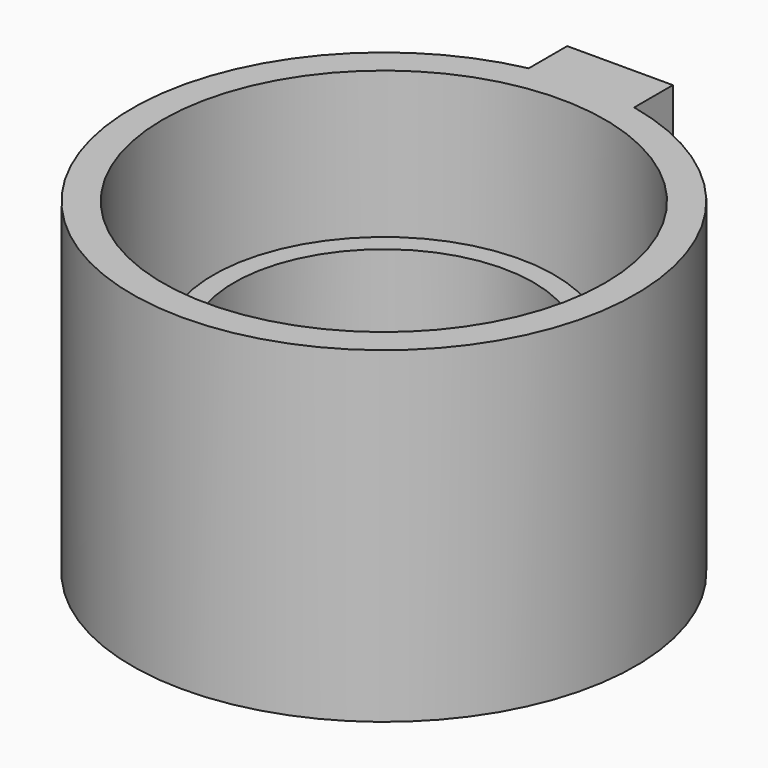
from build123d import *

# Parameters (mm, degrees)
F0_R     = 24.6872230857
F0_R_2   = 21.6872230857
F1_DEPTH = 30
F0_R_3   = 32.029344159
F2_DEPTH = 47.4


with BuildPart() as f1:
    # F0 (on Top) → F1 (new body)
    with BuildSketch(Plane.XY):
        Circle(F0_R)
        Circle(F0_R_2, mode=Mode.SUBTRACT)
    extrude(amount=F1_DEPTH)


with BuildPart() as f2:
    # F0 (on Top) → F2 (new body)
    with BuildSketch(Plane.XY):
        with BuildLine():
            ThreePointArc((-7.5577609241, 35.6765868017), (-22.9599621958, -28.3333501721), (36.4683231861, 0))
            ThreePointArc((36.4683231861, 0), (28.3933361351, 22.8857392086), (7.7443779446, 35.63654313))
            Line((7.7443779446, 35.63654313), (7.7443779446, 35.1762361825))
            Line((7.7443779446, 35.1762361825), (-7.5577609241, 35.1762361825))
            Line((-7.5577609241, 35.1762361825), (-7.5577609241, 35.6765868017))
        make_face()
        Circle(F0_R_3, mode=Mode.SUBTRACT)
        with BuildLine():
            Line((7.7443779446, 35.1762361825), (7.7443779446, 35.63654313))
            ThreePointArc((7.7443779446, 35.63654313), (0.0954324473, 36.4681983193), (-7.5577609241, 35.6765868017))
            Line((-7.5577609241, 35.6765868017), (-7.5577609241, 35.1762361825))
            Line((-7.5577609241, 35.1762361825), (7.7443779446, 35.1762361825))
        make_face()
        with BuildLine():
            ThreePointArc((-7.5577609241, 35.6765868017), (0.0954324473, 36.4681983193), (7.7443779446, 35.63654313))
            Line((7.7443779446, 35.63654313), (7.7443779446, 42.6407046616))
            Line((7.7443779446, 42.6407046616), (-7.5577609241, 42.6407046616))
            Line((-7.5577609241, 42.6407046616), (-7.5577609241, 35.6765868017))
        make_face()
    extrude(amount=F2_DEPTH)


solid = Compound([f1.part, f2.part])
